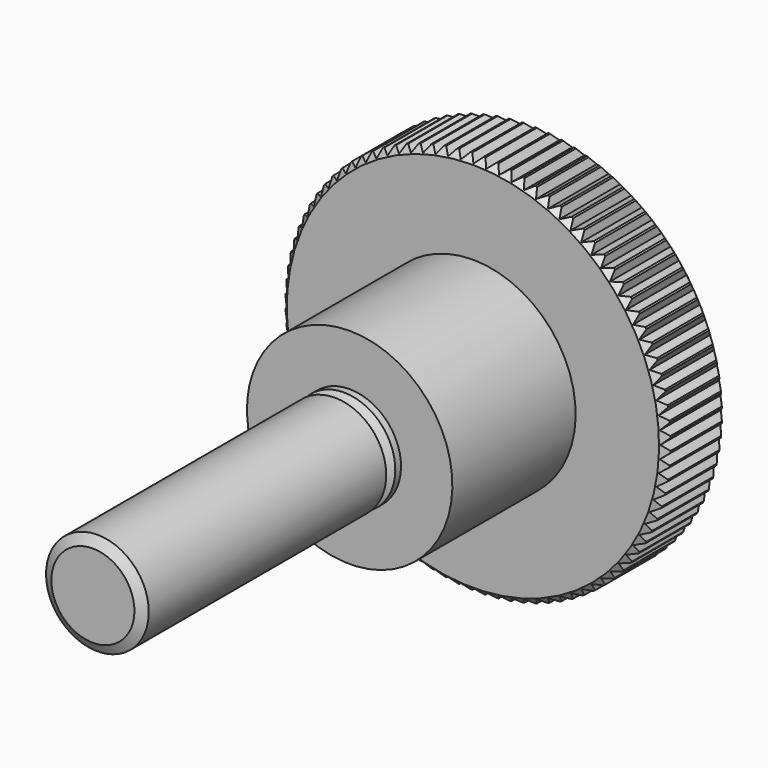
from build123d import *

# Parameters (mm, degrees)
POCKET_DEPTH       = 163.814906
POLARPATTERN_COUNT = 92


with BuildPart() as part:
    # Sketch → Revolution (revolve)
    with BuildSketch(Plane.YZ):
        Polygon((0, 0), (0, 3.235), (0.441673, 4), (23.558327, 4), (24, 3.235), (24.441673, 4), (25, 4), (25, 8), (37, 8), (37, 14.5), (37.5, 15), (42.5, 15), (43, 14.5), (43, 0), align=None)
    revolve(axis=Axis((0, 0, 0), (0, 1, 0)))

    # Sketch001 → Pocket (cut, through all)
    with BuildSketch(Plane.ZX.offset(43)):
        Polygon((-0.5, 15.05), (0, 14.55), (0.5, 15.05), align=None)
    pocket = extrude(amount=-POCKET_DEPTH, mode=Mode.SUBTRACT)

    # PolarPattern: Pocket ×92 about axis
    polarpattern_axis = Axis((0, 43, 0), (0, 1, 0))
    for i in range(1, POLARPATTERN_COUNT):
        add(pocket.rotate(polarpattern_axis, i * 360 / POLARPATTERN_COUNT), mode=Mode.SUBTRACT)


solid = part.part
